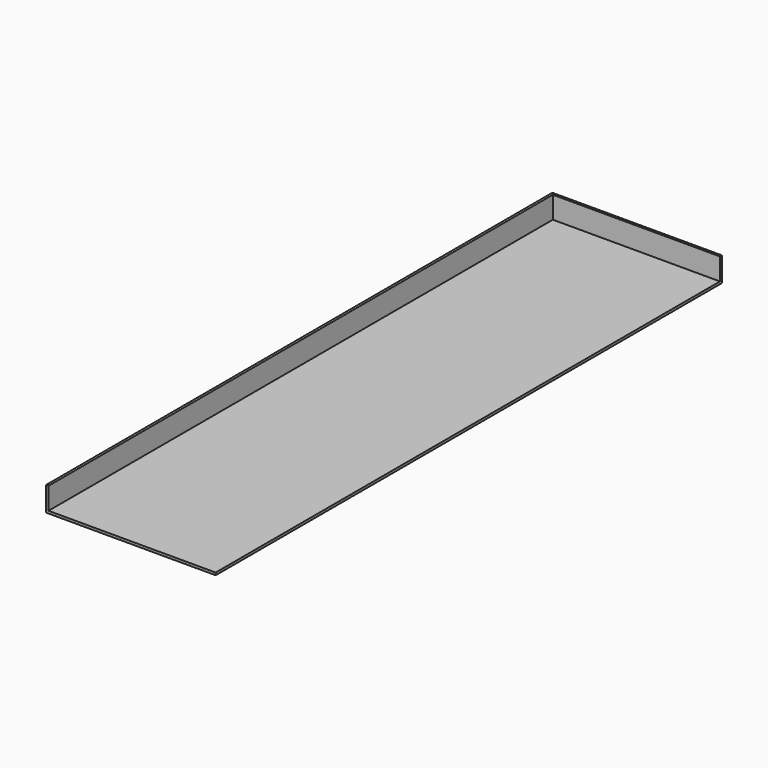
from build123d import *

# Parameters (mm, degrees)
F0_W     = 173.625991
F0_H     = 647.95208
F1_DEPTH = 25
F2_T     = -2.5


with BuildPart() as f1:
    # F0 (on Top) → F1 (new body)
    with BuildSketch(Plane.XY):
        with Locations((-86.812995, 323.97604)):
            Rectangle(F0_W, F0_H)
    extrude(amount=F1_DEPTH)

    # F2
    f2_openings = [f1.faces().sort_by_distance(p)[0] for p in [
        (-86.812995, 0, 12.5),
        (0, 323.97604, 12.5),
        (-86.812995, 323.97604, 25),
    ]]
    offset(amount=F2_T, openings=f2_openings)


solid = f1.part
